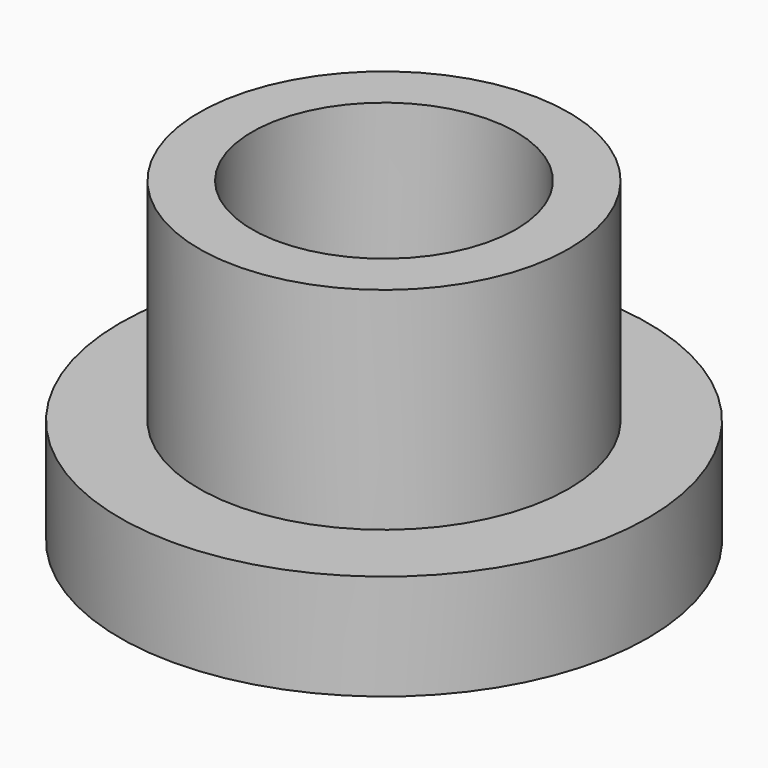
from build123d import *

# Parameters (mm, degrees)
F0_R     = 5
F0_R_2   = 3.5
F0_R_3   = 2.5
F1_DEPTH = 2
F2_DEPTH = 6


with BuildPart() as f1:
    # F0 (on Top) → F1 (new body)
    with BuildSketch(Plane.XY):
        Circle(F0_R)
        Circle(F0_R_2, mode=Mode.SUBTRACT)
        Circle(F0_R_2)
        Circle(F0_R_3, mode=Mode.SUBTRACT)
        Circle(F0_R_3)
    extrude(amount=F1_DEPTH)

    # F0 (on Top) → F2 (join)
    with BuildSketch(Plane.XY):
        Circle(F0_R_2)
        Circle(F0_R_3, mode=Mode.SUBTRACT)
    extrude(amount=F2_DEPTH)


solid = f1.part
